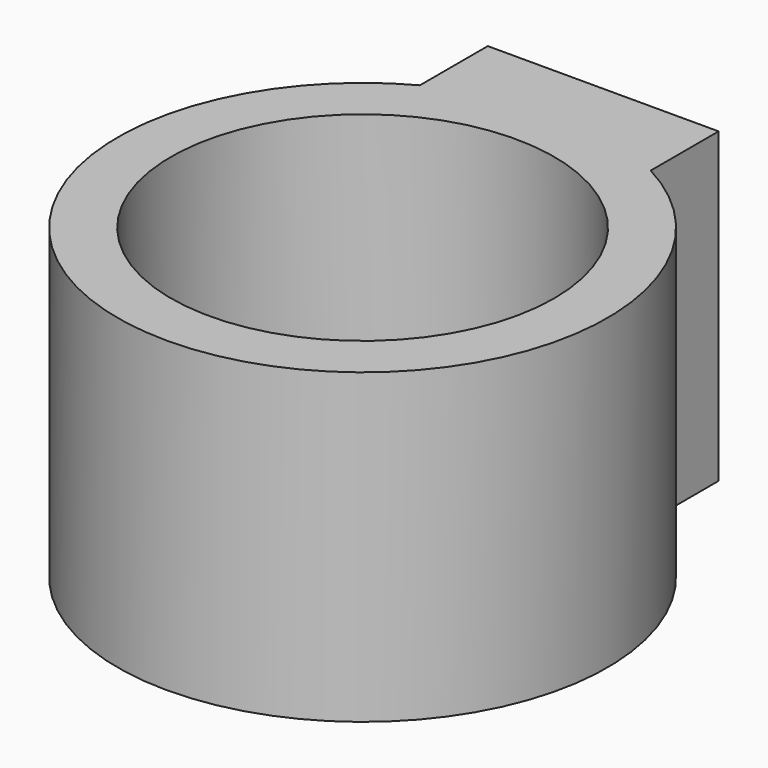
from build123d import *

# Parameters (mm, degrees)
F0_W     = 330
F0_H     = 300
F1_DEPTH = 110
F2_R     = 68.5
F3_DEPTH = 90.8
F5_DEPTH = 19.201
F2_W     = 330
F2_H     = 300
F2_R_2   = 87.5
F6_DEPTH = 110.001
F8_DEPTH = 110


with BuildPart() as f1:
    # F0 (on Top) → F1 (new body)
    with BuildSketch(Plane.XY):
        Rectangle(F0_W, F0_H)
    extrude(amount=-F1_DEPTH)

    # F2 (on Top) → F3 (cut)
    with BuildSketch(Plane.XY):
        Circle(F2_R)
    extrude(amount=-F3_DEPTH, mode=Mode.SUBTRACT)

    # F4 (on face) → F5 (cut, through all)
    with BuildSketch(Plane.XY.offset(-90.8)):
        with BuildLine():
            Line((0, -11.5), (0, 0))
            Line((0, 0), (0, 11.5))
            Line((0, 11.5), (-67.5277720645, 11.5))
            ThreePointArc((-67.5277720645, 11.5), (-68.5, 0), (-67.5277720645, -11.5))
            Line((-67.5277720645, -11.5), (0, -11.5))
        make_face()
        with BuildLine():
            Line((0, 11.5), (0, 0))
            Line((0, 0), (0, -11.5))
            Line((0, -11.5), (67.5277720645, -11.5))
            ThreePointArc((67.5277720645, -11.5), (68.2565102625, -5.7705118308), (68.5, 0))
            ThreePointArc((68.5, 0), (68.2565102625, 5.7705118308), (67.5277720645, 11.5))
            Line((67.5277720645, 11.5), (0, 11.5))
        make_face()
        with BuildLine():
            ThreePointArc((12, 43), (-8.4852813742, 51.4852813742), (0, 31))
            ThreePointArc((0, 31), (8.4852813742, 34.5147186258), (12, 43))
        make_face()
        with BuildLine():
            ThreePointArc((6.5, -45), (4.5961940777, -40.4038059223), (0, -38.5))
            ThreePointArc((0, -38.5), (-4.5961940777, -49.5961940777), (6.5, -45))
        make_face()
    extrude(amount=-F5_DEPTH, mode=Mode.SUBTRACT)

    # F2 (on Top) → F6 (cut, through all)
    with BuildSketch(Plane.XY):
        Rectangle(F2_W, F2_H)
        Circle(F2_R_2, mode=Mode.SUBTRACT)
    extrude(amount=-F6_DEPTH, mode=Mode.SUBTRACT)

    # F7 (on face) → F8 (join)
    with BuildSketch(Plane(origin=(0, 0, -110), x_dir=(1, 0, 0), z_dir=(0, 0, -1))):
        with BuildLine():
            ThreePointArc((41.25, -77.1666216703), (0, -87.5), (-41.25, -77.1666216703))
            Line((-41.25, -77.1666216703), (-41.25, -107.5))
            Line((-41.25, -107.5), (41.25, -107.5))
            Line((41.25, -107.5), (41.25, -77.1666216703))
        make_face()
    extrude(amount=-F8_DEPTH)


solid = f1.part
